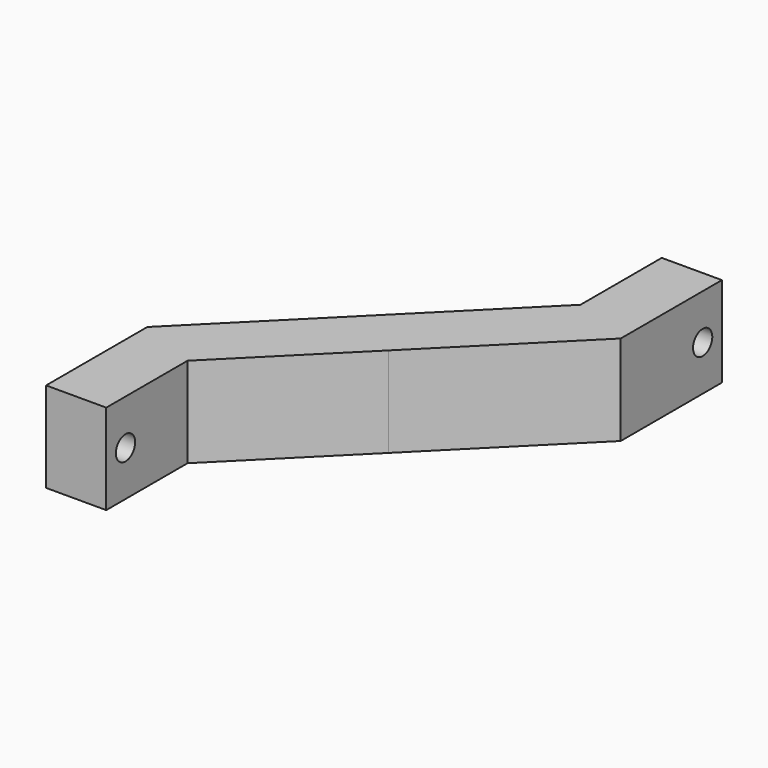
from build123d import *

# Parameters (mm, degrees)
F1_DEPTH      = 38.1
F2_R          = 5.08
F3_DEPTH      = 63.501
F3_DEPTH_BACK = 63.501


with BuildPart() as f1:
    # F0 (on Top) → F1 (new body)
    with BuildSketch(Plane.XY):
        Polygon((-8.9802561211, 8.9802561211), (-63.5, -45.5394877579), (-63.5, -98.9367140889), (-38.1, -98.9367140889), (-38.1, -56.0605122421), (8.9802561211, -8.9802561211), (63.5, 45.5394877579), (63.5, 98.9367140889), (38.1, 98.9367140889), (38.1, 56.0605122421), align=None)
    extrude(amount=F1_DEPTH)

    # F2 (on Right) → F3 (cut, two sides)
    with BuildSketch(Plane.YZ) as f3_sk:
        with Locations((88.7767140889, 19.05)):
            Circle(F2_R)
        with Locations((-88.7767140889, 19.05)):
            Circle(F2_R)
    extrude(amount=-F3_DEPTH, mode=Mode.SUBTRACT)
    extrude(f3_sk.sketch, amount=F3_DEPTH_BACK, mode=Mode.SUBTRACT)


solid = f1.part
